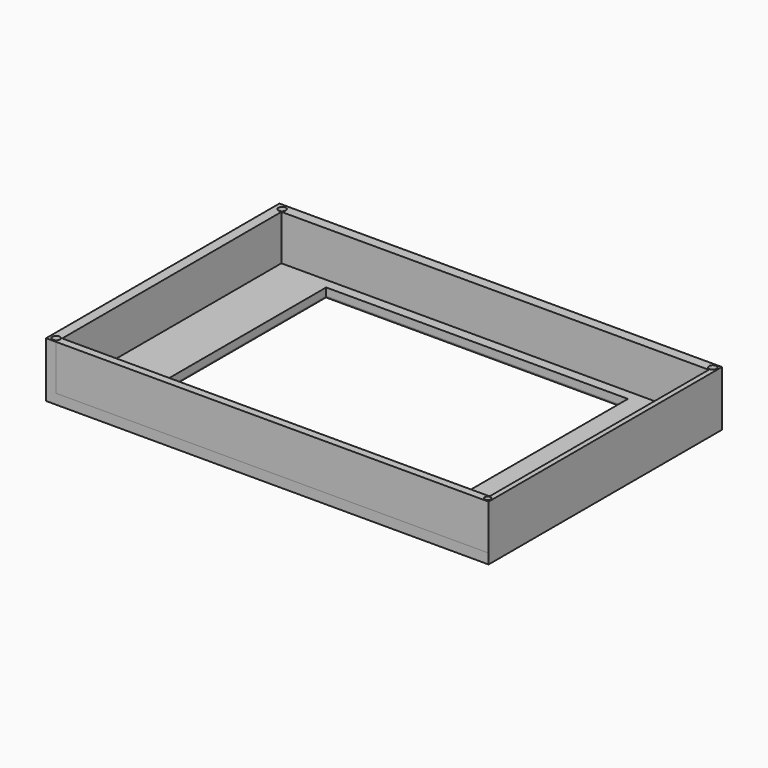
from build123d import *

# Parameters (mm, degrees)
SKETCH_W        = 88
SKETCH_H        = 58
PAD_DEPTH       = 2
SKETCH001_W     = 2
SKETCH001_H     = 58
SKETCH001_W_2   = 1
PAD001_DEPTH    = 9
SKETCH002_W     = 85
SKETCH002_H     = 1.5
SKETCH002_H_2   = 2
PAD002_DEPTH    = 9
SKETCH003_W     = 60
SKETCH003_H     = 43
POCKET_DEPTH    = 2
FILLET_R        = 0.5
SKETCH004_R     = 0.75
SKETCH004_R_2   = 0.6
POCKET001_DEPTH = 2


with BuildPart() as part:
    # Sketch → Pad (new body)
    with BuildSketch(Plane.XY):
        with Locations((44, 29)):
            Rectangle(SKETCH_W, SKETCH_H)
    extrude(amount=PAD_DEPTH)

    # Sketch001 (on Face6 of Pad) → Pad001 (join)
    with BuildSketch(Plane.XY.offset(2)):
        with Locations((1, 29)):
            Rectangle(SKETCH001_W, SKETCH001_H)
        with Locations((87.5, 29.000001)):
            Rectangle(SKETCH001_W_2, SKETCH001_H)
    extrude(amount=PAD001_DEPTH)

    # Sketch002 (on Face6 of Pad001) → Pad002 (join)
    with BuildSketch(Plane.XY.offset(2)):
        with Locations((44.5, 0.750001)):
            Rectangle(SKETCH002_W, SKETCH002_H)
        with Locations((44.5, 57.000001)):
            Rectangle(SKETCH002_W, SKETCH002_H_2)
    extrude(amount=PAD002_DEPTH)

    # Sketch003 (on Face21 of Pad002) → Pocket (cut)
    with BuildSketch(Plane.XY.offset(2)):
        with Locations((42.5, 32.5)):
            Rectangle(SKETCH003_W, SKETCH003_H)
    extrude(amount=-POCKET_DEPTH, mode=Mode.SUBTRACT)

    # Fillet
    fillet_edges = [part.edges().sort_by_distance(p)[0] for p in [
        (12.5, 32.5, 0),
        (42.5, 11, 0),
        (42.5, 54, 0),
        (72.5, 32.5, 0),
    ]]
    fillet(fillet_edges, radius=FILLET_R)

    # Sketch004 (on Face23 of Fillet) → Pocket001 (cut)
    with BuildSketch(Plane.XY.offset(11)):
        with Locations((1.2, 1)):
            Circle(SKETCH004_R)
        with Locations((1.5, 56.8)):
            Circle(SKETCH004_R)
        with Locations((87.2, 0.8)):
            Circle(SKETCH004_R_2)
        with Locations((87, 57)):
            Circle(SKETCH004_R)
    extrude(amount=-POCKET001_DEPTH, mode=Mode.SUBTRACT)


solid = part.part
